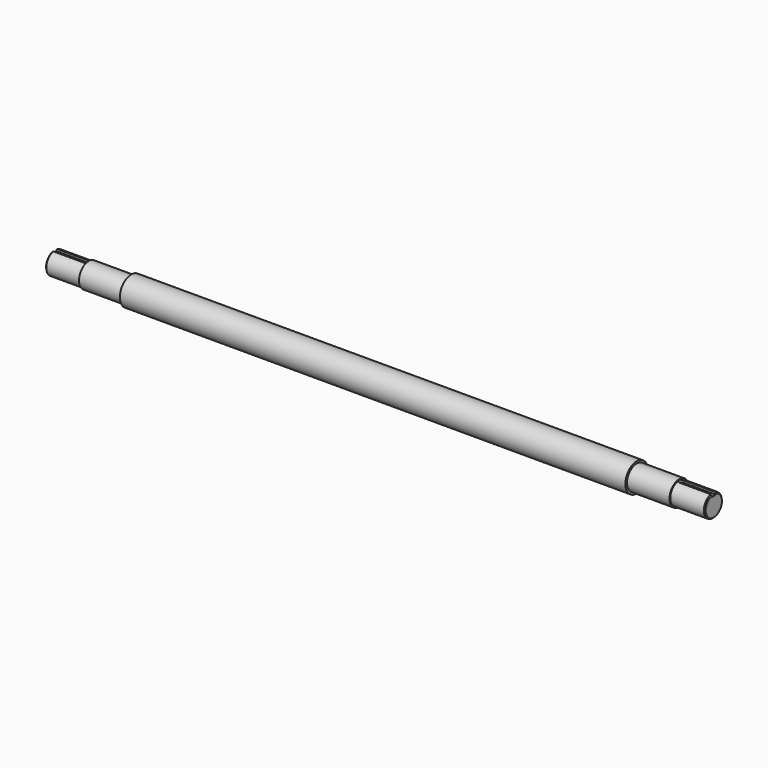
from build123d import *

# Parameters (mm, degrees)
F0_R     = 22.225
F1_DEPTH = 394.1064
F2_R     = 19.05
F3_DEPTH = 66.2686
F4_R     = 17.4625
F5_DEPTH = 53.848
F6_SIZE  = 1.5875
F9_DEPTH = 3.81


with BuildPart() as f1:
    # F0 (on Right) → F1 (new body)
    with BuildSketch(Plane.YZ):
        Circle(F0_R)
    extrude(amount=F1_DEPTH)

    # F2 (on face) → F3 (join)
    with BuildSketch(Plane.YZ.offset(394.1064)):
        Circle(F2_R)
    extrude(amount=F3_DEPTH)

    # F4 (on face) → F5 (join)
    with BuildSketch(Plane.YZ.offset(460.375)):
        Circle(F4_R)
    extrude(amount=F5_DEPTH)

    # F6
    f6_edges = [f1.edges().sort_by_distance(p)[0] for p in [
        (514.223, -17.4625, 0),
    ]]
    chamfer(f6_edges, length=F6_SIZE)

    # F8 (on offset) → F9 (cut)
    with BuildSketch(Plane.XY.offset(17.4625)):
        with BuildLine():
            Line((521.658003, 3.9624), (464.3374, 3.9624))
            ThreePointArc((464.3374, 3.9624), (460.375, 0), (464.3374, -3.9624))
            Line((464.3374, -3.9624), (521.658003, -3.9624))
            Line((521.658003, -3.9624), (521.658003, 3.9624))
        make_face()
    extrude(amount=-F9_DEPTH, mode=Mode.SUBTRACT)

    # F10: F1 across plane


with BuildPart() as f1_1:
    add(f1.part)
    add(f1.part.mirror(Plane.YZ))


solid = f1_1.part
